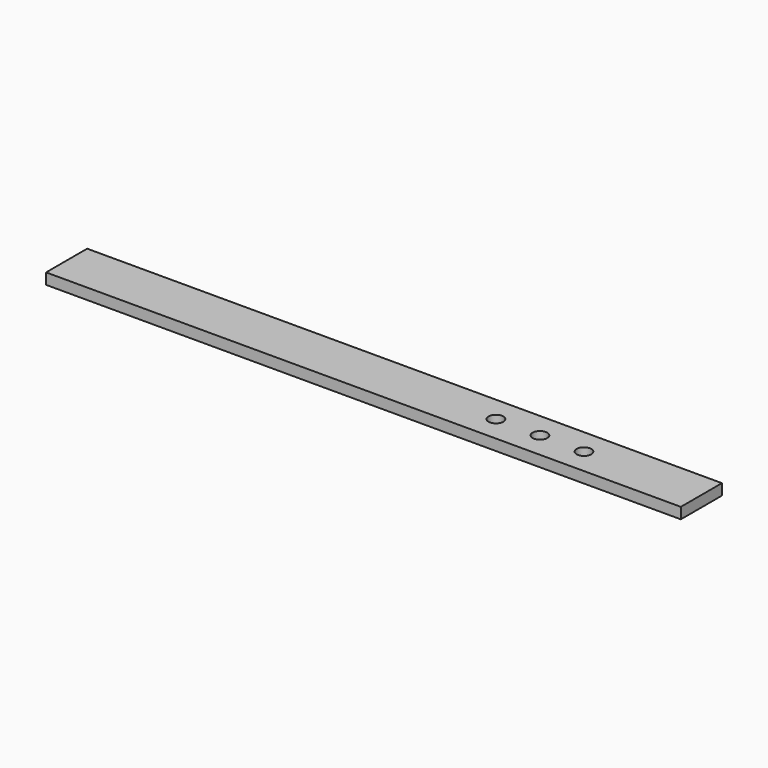
from build123d import *

# Parameters (mm, degrees)
F0_W     = 1098.55
F0_H     = 88.9
F0_R     = 12.7
F1_DEPTH = 19.05


with BuildPart() as f1:
    # F0 (on Top) → F1 (new body)
    with BuildSketch(Plane.XY):
        with Locations((-2976.514723, -23.573791)):
            Rectangle(F0_W, F0_H)
        with Locations((-2782.839723, -23.573791)):
            Circle(F0_R, mode=Mode.SUBTRACT)
        with Locations((-2706.639723, -23.573791)):
            Circle(F0_R, mode=Mode.SUBTRACT)
        with Locations((-2630.439723, -23.573791)):
            Circle(F0_R, mode=Mode.SUBTRACT)
    extrude(amount=F1_DEPTH)


solid = f1.part
